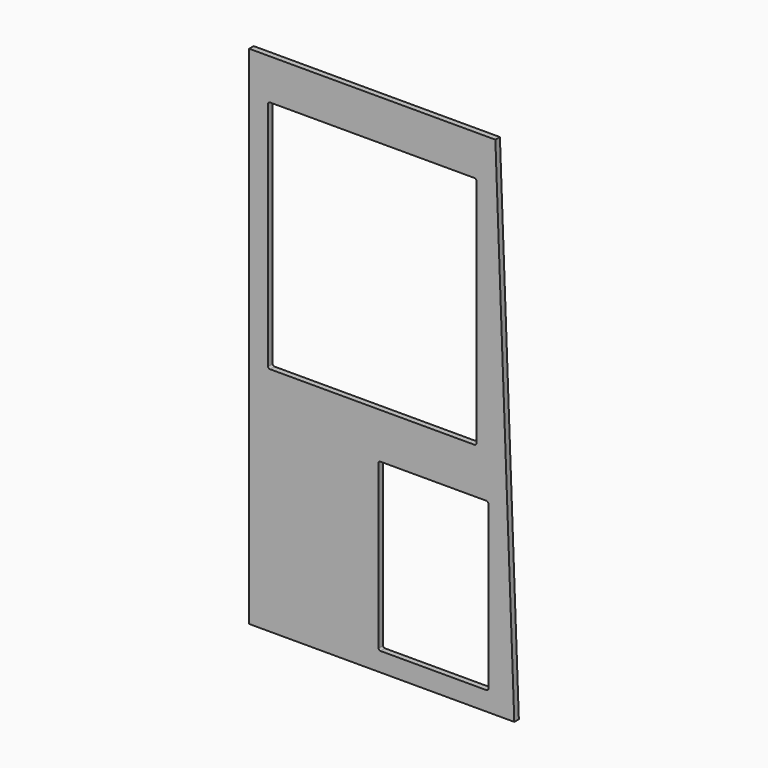
from build123d import *

# Parameters (mm, degrees)
F0_W     = 500
F0_H     = 15
F1_DEPTH = 15
F2_DEPTH = 10


with BuildPart() as f1:
    # F0 (on Front) → F1 (new body)
    with BuildSketch(Plane.XZ):
        Polygon((650, 0), (0, 0), (0, -1337), (700, -1337), align=None)
        with Locations((325, -769.5)):
            Rectangle(F0_W, F0_H, mode=Mode.SUBTRACT)
        with BuildLine():
            ThreePointArc((341.640441, -852), (343.104907, -848.464466), (346.640441, -847))
            Line((346.640441, -847), (626.640441, -847))
            ThreePointArc((626.640441, -847), (630.175975, -848.464466), (631.640441, -852))
            Line((631.640441, -852), (631.640441, -1282))
            ThreePointArc((631.640441, -1282), (630.175975, -1285.535534), (626.640441, -1287))
            Line((626.640441, -1287), (346.640441, -1287))
            ThreePointArc((346.640441, -1287), (343.104907, -1285.535534), (341.640441, -1282))
            Line((341.640441, -1282), (341.640441, -852))
        make_face(mode=Mode.SUBTRACT)
        with BuildLine():
            Line((55, -107), (595, -107))
            ThreePointArc((595, -107), (598.535534, -108.464466), (600, -112))
            Line((600, -112), (600, -722))
            ThreePointArc((600, -722), (598.535534, -725.535534), (595, -727))
            Line((595, -727), (55, -727))
            ThreePointArc((55, -727), (51.464466, -725.535534), (50, -722))
            Line((50, -722), (50, -112))
            ThreePointArc((50, -112), (51.464466, -108.464466), (55, -107))
        make_face(mode=Mode.SUBTRACT)
        with Locations((325, -769.5)):
            Rectangle(F0_W, F0_H)
    extrude(amount=F1_DEPTH)

    # F0 (on Front) → F2 (cut)
    with BuildSketch(Plane.XZ):
        with Locations((325, -769.5)):
            Rectangle(F0_W, F0_H)
    extrude(amount=F2_DEPTH, mode=Mode.SUBTRACT)


solid = f1.part
